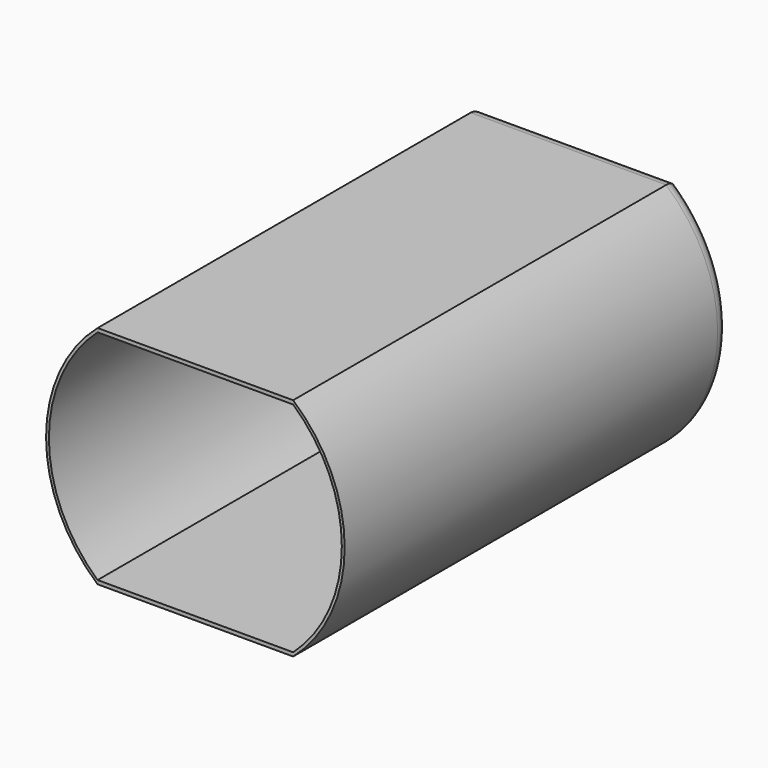
from build123d import *

# Parameters (mm, degrees)
SKETCH251_AS_DRAWN_R                 = 1
EXTRUDE052_DEPTH                     = 1
EXTRUDE052_ONTO_SKETCH251_ROLL_ANGLE = 90
SKETCH249_AS_DRAWN_R                 = 2
EXTRUDE051_DEPTH                     = 1
EXTRUDE051_ONTO_SKETCH249_ROLL_ANGLE = 90
EXTRUDE047_DEPTH                     = 31
EXTRUDE047_ONTO_SKETCH246_ROLL_ANGLE = 90
CHAMFER_SIZE                         = 1
EXTRUDE046_DEPTH                     = 32
EXTRUDE046_ONTO_SKETCH244_ROLL_ANGLE = 90
FILLET_R                             = 1
SKETCH248_AS_DRAWN_R                 = 2
EXTRUDE050_DEPTH                     = 2
EXTRUDE050_ONTO_SKETCH248_ROLL_ANGLE = 90
SKETCH247_AS_DRAWN_R                 = 3
EXTRUDE049_DEPTH                     = 2
EXTRUDE049_ONTO_SKETCH247_ROLL_ANGLE = 90
FILLET001_R                          = 0.5


with BuildPart() as extrude052:
    # Sketch251 as drawn → Extrude052 (new)
    with BuildSketch(Plane.XY):
        with Locations((4.5, 0)):
            Circle(SKETCH251_AS_DRAWN_R)
        with Locations((-7.5, 0)):
            Circle(SKETCH251_AS_DRAWN_R)
        with Locations((-1.5, 5)):
            Circle(SKETCH251_AS_DRAWN_R)
    extrude(amount=-EXTRUDE052_DEPTH)


with BuildPart() as extrude052_1:
    # Extrude052 onto Sketch251 roll: moved
    add(extrude052.part.rotate(Axis((0, 0, 0), (1, 0, 0)), EXTRUDE052_ONTO_SKETCH251_ROLL_ANGLE))


with BuildPart() as extrude052_2:
    # Extrude052 onto Sketch251 placement: moved
    add(extrude052_1.part.moved(Location((1.5, 31, 0))))


with BuildPart() as extrude051:
    # Sketch249 as drawn → Extrude051 (new)
    with BuildSketch(Plane.XY):
        Circle(SKETCH249_AS_DRAWN_R)
    extrude(amount=-EXTRUDE051_DEPTH)


with BuildPart() as extrude051_1:
    # Extrude051 onto Sketch249 roll: moved
    add(extrude051.part.rotate(Axis((0, 0, 0), (1, 0, 0)), EXTRUDE051_ONTO_SKETCH249_ROLL_ANGLE))


with BuildPart() as extrude051_2:
    # Extrude051 onto Sketch249 placement: moved
    add(extrude051_1.part.moved(Location((0, 31, 0))))


with BuildPart() as chamfer_body:
    # Sketch246 as drawn → Extrude047 (new)
    with BuildSketch(Plane.XY):
        with BuildLine():
            Line((-6.5, 7.250002), (6.499997, 7.250002))
            ThreePointArc((6.499997, -7.250002), (9.737171, 0), (6.499997, 7.250002))
            Line((-6.5, -7.250002), (6.499997, -7.250002))
            ThreePointArc((-6.5, 7.250002), (-9.737172, 0), (-6.5, -7.250002))
        make_face()
    extrude(amount=-EXTRUDE047_DEPTH)


with BuildPart() as chamfer_body_1:
    # Extrude047 onto Sketch246 roll: moved
    add(chamfer_body.part.rotate(Axis((0, 0, 0), (1, 0, 0)), EXTRUDE047_ONTO_SKETCH246_ROLL_ANGLE))


with BuildPart() as chamfer_body_2:
    # Extrude047 onto Sketch246 placement: moved
    add(chamfer_body_1.part)

    # Chamfer
    chamfer_edges = [chamfer_body_2.edges().sort_by_distance(p)[0] for p in [
        (-1e-06, 31, 7.250002),
        (9.737171, 31, 0),
        (-1e-06, 31, -7.250002),
        (-9.737172, 31, 0),
    ]]
    chamfer(chamfer_edges, length=CHAMFER_SIZE)


with BuildPart() as cut032:
    # Sketch244 as drawn → Extrude046 (new)
    with BuildSketch(Plane.XY):
        with BuildLine():
            Line((-6.5, 7.499998), (6.499997, 7.499998))
            ThreePointArc((6.499997, -7.499998), (9.924714, 0), (6.499997, 7.499998))
            Line((-6.5, -7.499998), (6.499997, -7.499998))
            ThreePointArc((-6.5, 7.499998), (-9.924715, 0), (-6.5, -7.499998))
        make_face()
    extrude(amount=-EXTRUDE046_DEPTH)


with BuildPart() as cut032_1:
    # Extrude046 onto Sketch244 roll: moved
    add(cut032.part.rotate(Axis((0, 0, 0), (1, 0, 0)), EXTRUDE046_ONTO_SKETCH244_ROLL_ANGLE))


with BuildPart() as cut032_2:
    # Extrude046 onto Sketch244 placement: moved
    add(cut032_1.part)

    # Fillet
    fillet_edges = [cut032_2.edges().sort_by_distance(p)[0] for p in [
        (-1e-06, 32, 7.499998),
        (9.924714, 32, 0),
        (-1e-06, 32, -7.499998),
        (-9.924715, 32, 0),
    ]]
    fillet(fillet_edges, radius=FILLET_R)

    # Cut029: cut Chamfer body
    add(chamfer_body_2.part, mode=Mode.SUBTRACT)

    # Cut031: cut Extrude051
    add(extrude051_2.part, mode=Mode.SUBTRACT)

    # Cut032: cut Extrude052
    add(extrude052_2.part, mode=Mode.SUBTRACT)


with BuildPart() as extrude050:
    # Sketch248 as drawn → Extrude050 (new)
    with BuildSketch(Plane.XY):
        Circle(SKETCH248_AS_DRAWN_R)
    extrude(amount=-EXTRUDE050_DEPTH)


with BuildPart() as extrude050_1:
    # Extrude050 onto Sketch248 roll: moved
    add(extrude050.part.rotate(Axis((0, 0, 0), (1, 0, 0)), EXTRUDE050_ONTO_SKETCH248_ROLL_ANGLE))


with BuildPart() as extrude050_2:
    # Extrude050 onto Sketch248 placement: moved
    add(extrude050_1.part.moved(Location((0, 34, 0))))


with BuildPart() as extrude050_3:
    # Extrude050 placement: moved
    add(extrude050_2.part.moved(Location((0, -2, 0))))


with BuildPart() as fusion017:
    # Sketch247 as drawn → Extrude049 (new)
    with BuildSketch(Plane.XY):
        Circle(SKETCH247_AS_DRAWN_R)
    extrude(amount=-EXTRUDE049_DEPTH)


with BuildPart() as fusion017_1:
    # Extrude049 onto Sketch247 roll: moved
    add(fusion017.part.rotate(Axis((0, 0, 0), (1, 0, 0)), EXTRUDE049_ONTO_SKETCH247_ROLL_ANGLE))


with BuildPart() as fusion017_2:
    # Extrude049 onto Sketch247 placement: moved
    add(fusion017_1.part.moved(Location((0, 32, 0))))

    # Fillet001
    fillet001_edges = [fusion017_2.edges().sort_by_distance(p)[0] for p in [
        (-3, 34, 0),
    ]]
    fillet(fillet001_edges, radius=FILLET001_R)

    # Cut030: cut Extrude050
    add(extrude050_3.part, mode=Mode.SUBTRACT)

    # Fusion017: union Cut032
    add(cut032_2.part)


solid = fusion017_2.part
